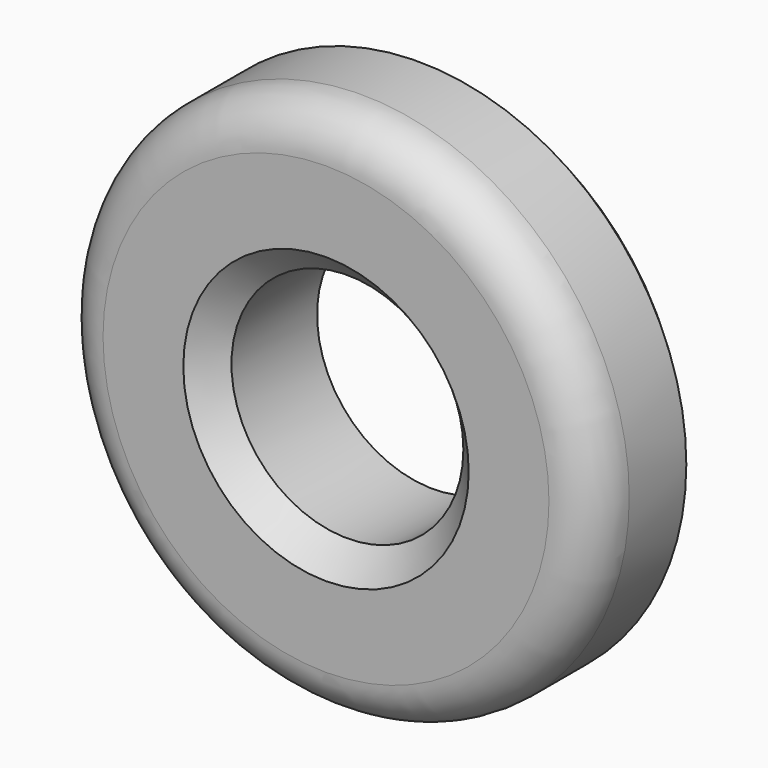
from build123d import *

# Parameters (mm, degrees)
F0_R     = 30
F0_R_2   = 13
F1_DEPTH = 15
F2_R     = 5
F3_SIZE  = 3
F4_SIZE  = 2


with BuildPart() as f1:
    # F0 (on Front) → F1 (new body)
    with BuildSketch(Plane.XZ):
        Circle(F0_R)
        Circle(F0_R_2, mode=Mode.SUBTRACT)
    extrude(amount=F1_DEPTH)

    # F2
    f2_edges = [f1.edges().sort_by_distance(p)[0] for p in [
        (-30, -15, 0),
    ]]
    fillet(f2_edges, radius=F2_R)

    # F3
    f3_edges = [f1.edges().sort_by_distance(p)[0] for p in [
        (-13, -15, 0),
    ]]
    chamfer(f3_edges, length=F3_SIZE)

    # F4
    f4_edges = [f1.edges().sort_by_distance(p)[0] for p in [
        (-30, 0, 0),
    ]]
    chamfer(f4_edges, length=F4_SIZE)


solid = f1.part
